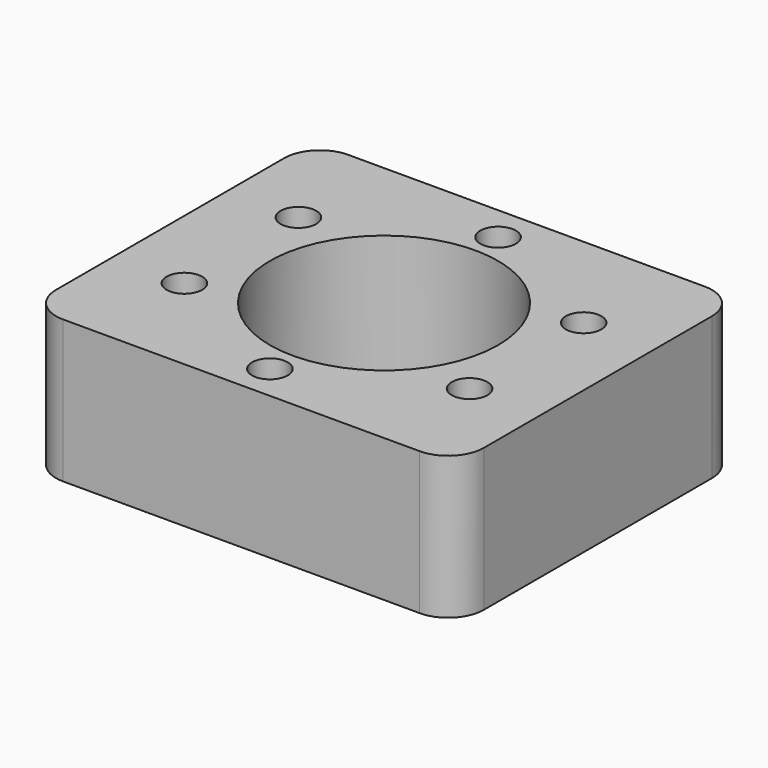
from build123d import *

# Parameters (mm, degrees)
SKETCH_W   = 60
SKETCH_H   = 50
SKETCH_R   = 2.5
SKETCH_R_2 = 16
PAD_DEPTH  = 20
FILLET_R   = 5


with BuildPart() as part:
    # Sketch → Pad (new body)
    with BuildSketch(Plane.XY):
        Rectangle(SKETCH_W, SKETCH_H)
        with Locations((0, 20)):
            Circle(SKETCH_R, mode=Mode.SUBTRACT)
        with Locations((-20, 10)):
            Circle(SKETCH_R, mode=Mode.SUBTRACT)
        with Locations((-20, -10)):
            Circle(SKETCH_R, mode=Mode.SUBTRACT)
        with Locations((20, -10)):
            Circle(SKETCH_R, mode=Mode.SUBTRACT)
        with Locations((20, 10)):
            Circle(SKETCH_R, mode=Mode.SUBTRACT)
        with Locations((0, -20)):
            Circle(SKETCH_R, mode=Mode.SUBTRACT)
        Circle(SKETCH_R_2, mode=Mode.SUBTRACT)
    extrude(amount=PAD_DEPTH)

    # Fillet
    fillet_edges = [part.edges().sort_by_distance(p)[0] for p in [
        (30, 25, 10),
        (30, -25, 10),
        (-30, -25, 10),
        (-30, 25, 10),
    ]]
    fillet(fillet_edges, radius=FILLET_R)


solid = part.part
